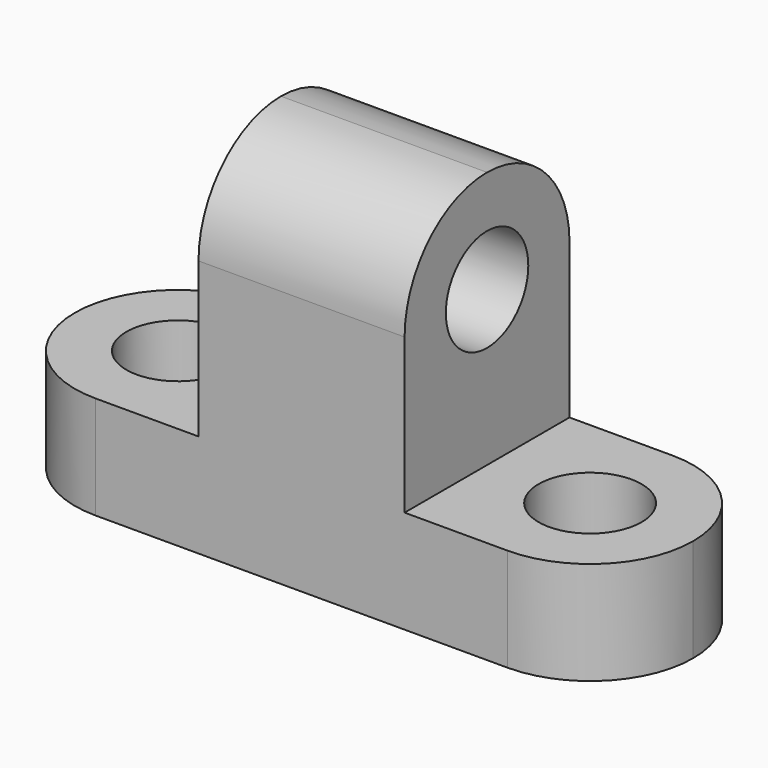
from build123d import *

# Parameters (mm, degrees)
F1_DEPTH = 25.4
F2_R     = 6.35
F3_DEPTH = 25.4
F4_R     = 6.35
F5_DEPTH = 25.4
F6_R     = 6.35
F7_DEPTH = 25.4


with BuildPart() as f1:
    # F0 (on Front) → F1 (new body)
    with BuildSketch(Plane.XZ):
        Polygon((-59.860062, 10.90291), (-85.260062, 10.90291), (-85.260062, -1.79709), (-9.060062, -1.79709), (-9.060062, 10.90291), (-34.460062, 10.90291), (-34.460062, 42.65291), (-59.860062, 42.65291), align=None)
    extrude(amount=F1_DEPTH)

    # F2 (on face) → F3 (cut)
    with BuildSketch(Plane.YZ.offset(-34.460062)):
        with Locations((-12.7, 29.95291)):
            Circle(F2_R)
        with BuildLine():
            ThreePointArc((-12.7, 42.65291), (-3.719744, 38.933166), (0, 29.95291))
            Line((0, 29.95291), (0, 42.65291))
            Line((0, 42.65291), (-12.7, 42.65291))
        make_face()
        with BuildLine():
            ThreePointArc((-25.4, 29.95291), (-21.680256, 38.933166), (-12.7, 42.65291))
            Line((-12.7, 42.65291), (-25.4, 42.65291))
            Line((-25.4, 42.65291), (-25.4, 29.95291))
        make_face()
    extrude(amount=-F3_DEPTH, mode=Mode.SUBTRACT)

    # F4 (on face) → F5 (cut)
    with BuildSketch(Plane.XY.offset(10.90291)):
        with Locations((-21.760062, -12.7)):
            Circle(F4_R)
        with BuildLine():
            ThreePointArc((-21.760062, 0), (-12.779806, -3.719744), (-9.060062, -12.7))
            Line((-9.060062, -12.7), (-9.060062, 0))
            Line((-9.060062, 0), (-21.760062, 0))
        make_face()
        with BuildLine():
            ThreePointArc((-9.060062, -12.7), (-12.779806, -21.680256), (-21.760062, -25.4))
            Line((-21.760062, -25.4), (-9.060062, -25.4))
            Line((-9.060062, -25.4), (-9.060062, -12.7))
        make_face()
    extrude(amount=-F5_DEPTH, mode=Mode.SUBTRACT)

    # F6 (on face) → F7 (cut)
    with BuildSketch(Plane.XY.offset(10.90291)):
        with Locations((-72.560062, -12.7)):
            Circle(F6_R)
        with BuildLine():
            ThreePointArc((-85.260062, -12.7), (-81.540318, -3.719744), (-72.560062, 0))
            Line((-72.560062, 0), (-85.260062, 0))
            Line((-85.260062, 0), (-85.260062, -12.7))
        make_face()
        with BuildLine():
            ThreePointArc((-72.560062, -25.4), (-81.540318, -21.680256), (-85.260062, -12.7))
            Line((-85.260062, -12.7), (-85.260062, -25.4))
            Line((-85.260062, -25.4), (-72.560062, -25.4))
        make_face()
    extrude(amount=-F7_DEPTH, mode=Mode.SUBTRACT)


solid = f1.part
